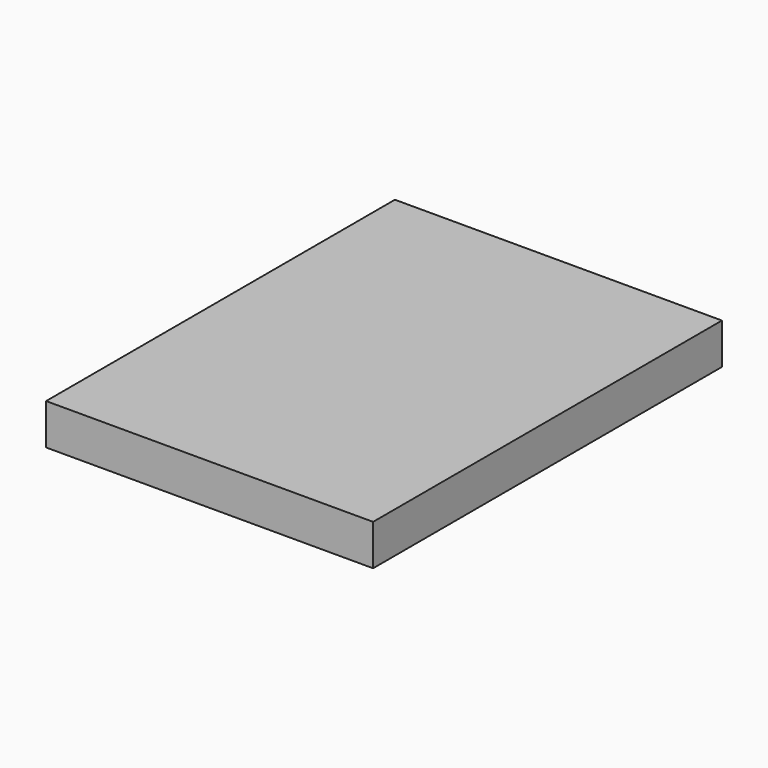
from build123d import *

# Parameters (mm, degrees)
BOX_W     = 152.4
BOX_H     = 203.2
BOX_DEPTH = 19.05


with BuildPart() as part:
    # Box → Box (new body)
    with BuildSketch(Plane.XY):
        with Locations((76.2, 101.6)):
            Rectangle(BOX_W, BOX_H)
    extrude(amount=BOX_DEPTH)


solid = part.part
